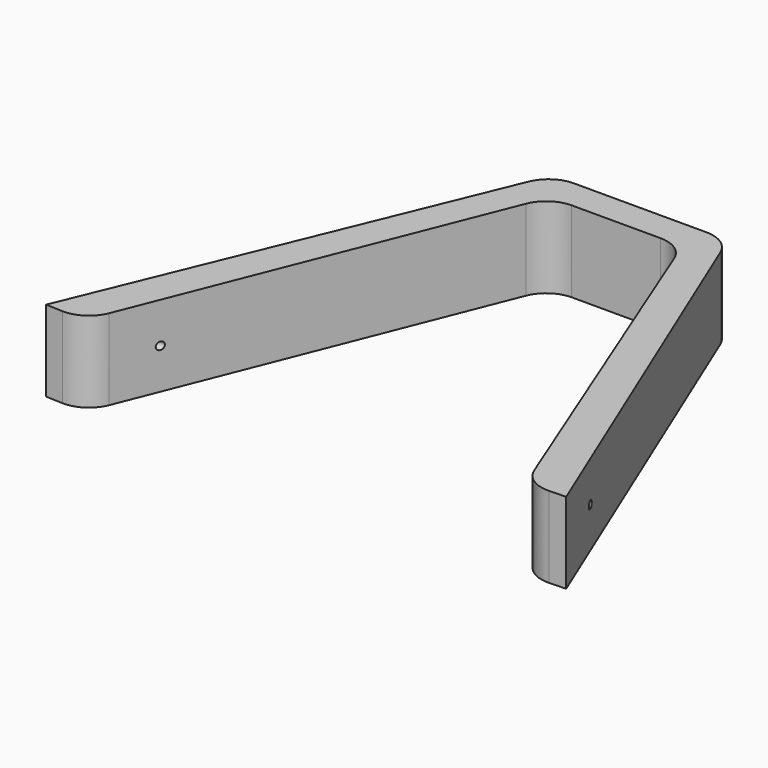
from build123d import *

# Parameters (mm, degrees)
F1_DEPTH      = 12.7
F2_R          = 0.6
F3_DEPTH      = 85.2
F3_DEPTH_BACK = 66
F4_R          = 5


with BuildPart() as f1:
    # F0 (on Top) → F1 (new body)
    with BuildSketch(Plane.XY):
        Polygon((-10.35969, 34.220118), (0, 34.220118), (0, 38.953215), (-13.748372, 38.953215), (-40.783513, -26.551465), (-34.636915, -26.774898), align=None)
        Polygon((0, 38.953215), (0, 34.220118), (10.35969, 34.220118), (34.636915, -26.774898), (40.783513, -26.551465), (13.748372, 38.953215), align=None)
    extrude(amount=F1_DEPTH)

    # F2 (on Right) → F3 (cut, two sides)
    with BuildSketch(Plane.YZ) as f3_sk:
        with Locations((-16.804494, 6.35)):
            Circle(F2_R)
    extrude(amount=F3_DEPTH, mode=Mode.SUBTRACT)
    extrude(f3_sk.sketch, amount=-F3_DEPTH_BACK, mode=Mode.SUBTRACT)

    # F4
    f4_edges = [f1.edges().sort_by_distance(p)[0] for p in [
        (13.748372, 38.953215, 6.35),
        (-13.748372, 38.953215, 6.35),
        (-34.636915, -26.774898, 6.35),
        (34.636915, -26.774898, 6.35),
        (-10.35969, 34.220118, 6.35),
        (10.35969, 34.220118, 6.35),
    ]]
    fillet(f4_edges, radius=F4_R)


solid = f1.part
